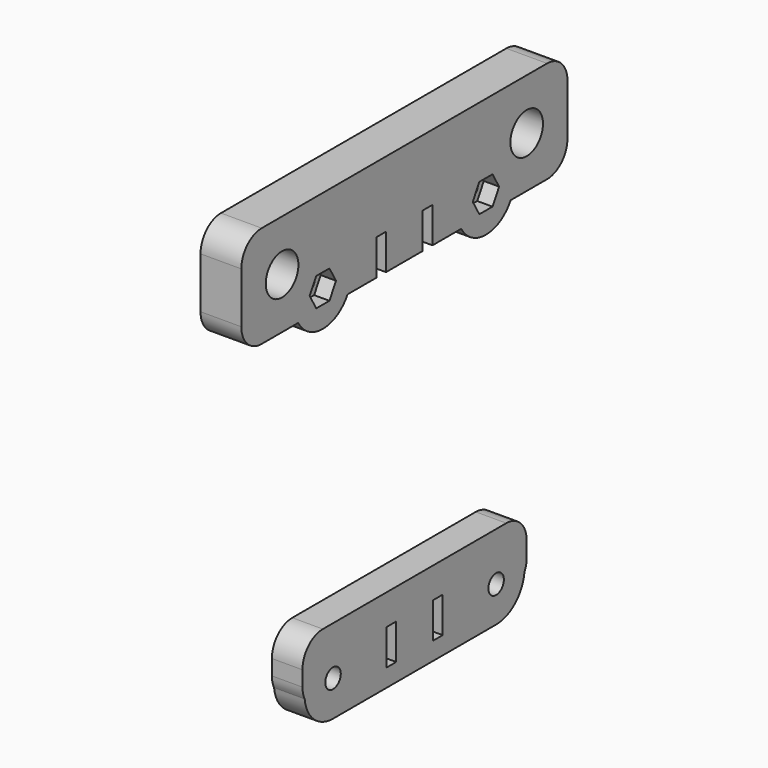
from build123d import *

# Parameters (mm, degrees)
F1_DEPTH = 4
F2_R     = 1.4
F3_DEPTH = 13
F4_R     = 1.8
F4_R_2   = 4
F5_DEPTH = 4
F7_DEPTH = 3
F8_R     = 1.9
F8_W     = 2.4
F8_H     = 7
F9_DEPTH = 6


with BuildPart() as f1:
    # F0 (on Right) → F1 (new body, symmetric)
    with BuildSketch(Plane.YZ):
        with BuildLine():
            Line((11, 25), (-11, 25))
            Line((-11, 25), (-11, 10))
            ThreePointArc((-11, 10), (-10.414214, 8.585786), (-9, 8))
            Line((-9, 8), (9, 8))
            ThreePointArc((9, 8), (10.414214, 8.585786), (11, 10))
            Line((11, 10), (11, 25))
        make_face()
    extrude(amount=F1_DEPTH, both=True)

    # F2 (on face) → F3 (cut)
    with BuildSketch(Plane.XY.offset(25)):
        with Locations((0, 30)):
            Circle(F2_R)
        with Locations((0, 24)):
            Circle(F2_R)
        with Locations((0, -24)):
            Circle(F2_R)
        with Locations((0, -30)):
            Circle(F2_R)
    extrude(amount=-F3_DEPTH, mode=Mode.SUBTRACT)


with BuildPart() as f5:
    # F4 (on Right) → F5 (new body, symmetric)
    with BuildSketch(Plane.YZ):
        with BuildLine():
            Line((-11, 80.186208), (-35, 80.186208))
            ThreePointArc((-35, 80.186208), (-38.535534, 78.721742), (-40, 75.186208))
            Line((-40, 75.186208), (-40, 65.186208))
            ThreePointArc((-40, 65.186208), (-38.535534, 61.650674), (-35, 60.186208))
            Line((-35, 60.186208), (-26.062178, 60.186208))
            ThreePointArc((-26.062178, 60.186208), (-20, 56.686208), (-13.937822, 60.186208))
            Line((-13.937822, 60.186208), (-6.9, 60.186208))
            Line((-6.9, 60.186208), (-6.9, 67.186208))
            Line((-6.9, 67.186208), (-4.5, 67.186208))
            Line((-4.5, 67.186208), (-4.5, 60.186208))
            Line((-4.5, 60.186208), (4.5, 60.186208))
            Line((4.5, 60.186208), (4.5, 67.186208))
            Line((4.5, 67.186208), (6.9, 67.186208))
            Line((6.9, 67.186208), (6.9, 60.186208))
            Line((6.9, 60.186208), (13.937822, 60.186208))
            ThreePointArc((13.937822, 60.186208), (20, 56.686208), (26.062178, 60.186208))
            Line((26.062178, 60.186208), (35, 60.186208))
            ThreePointArc((35, 60.186208), (38.535534, 61.650674), (40, 65.186208))
            Line((40, 65.186208), (40, 75.186208))
            ThreePointArc((40, 75.186208), (38.535534, 78.721742), (35, 80.186208))
            Line((35, 80.186208), (11, 80.186208))
            Line((11, 80.186208), (-11, 80.186208))
        make_face()
        with Locations((-20, 63.686208)):
            Circle(F4_R, mode=Mode.SUBTRACT)
        with Locations((20, 63.686208)):
            Circle(F4_R, mode=Mode.SUBTRACT)
        with Locations((-30, 70.186208)):
            Circle(F4_R_2, mode=Mode.SUBTRACT)
        with Locations((30, 70.186208)):
            Circle(F4_R_2, mode=Mode.SUBTRACT)
    extrude(amount=F5_DEPTH, both=True)

    # F6 (on face) → F7 (cut)
    with BuildSketch(Plane.YZ.offset(4)):
        Polygon((21.616581, 66.486208), (18.383419, 66.486208), (16.766838, 63.686208), (18.383419, 60.886208), (21.616581, 60.886208), (23.233162, 63.686208), align=None)
        Polygon((-18.383419, 66.486208), (-21.616581, 66.486208), (-23.233162, 63.686208), (-21.616581, 60.886208), (-18.383419, 60.886208), (-16.766838, 63.686208), align=None)
    extrude(amount=-F7_DEPTH, mode=Mode.SUBTRACT)


with BuildPart() as f9:
    # F8 (on Right) → F9 (new body)
    with BuildSketch(Plane.YZ):
        with BuildLine():
            Line((22.5, 6.5), (-22.5, 6.5))
            ThreePointArc((-22.5, 6.5), (-26.035534, 5.035534), (-27.5, 1.5))
            Line((-27.5, 1.5), (-27.5, -1.5))
            ThreePointArc((-27.5, -1.5), (-27.362668, -2.663813), (-26.958216, -3.763694))
            ThreePointArc((-26.958216, -3.763694), (-24.703816, -8.184025), (-20.08583, -9.999474))
            Line((-20.08583, -9.999474), (-19.914354, -9.999476))
            Line((-19.914354, -9.999476), (19.999908, -10))
            ThreePointArc((19.999908, -10), (24.671911, -8.212796), (26.958216, -3.763694))
            ThreePointArc((26.958216, -3.763694), (27.362668, -2.663813), (27.5, -1.5))
            Line((27.5, -1.5), (27.5, 1.5))
            ThreePointArc((27.5, 1.5), (26.035534, 5.035534), (22.5, 6.5))
        make_face()
        with Locations((-20, -3)):
            Circle(F8_R, mode=Mode.SUBTRACT)
        with Locations((-5.7, -3)):
            Rectangle(F8_W, F8_H, mode=Mode.SUBTRACT)
        with Locations((5.7, -3)):
            Rectangle(F8_W, F8_H, mode=Mode.SUBTRACT)
        with Locations((20, -3)):
            Circle(F8_R, mode=Mode.SUBTRACT)
    extrude(amount=F9_DEPTH)


solid = Compound([f5.part, f9.part])
